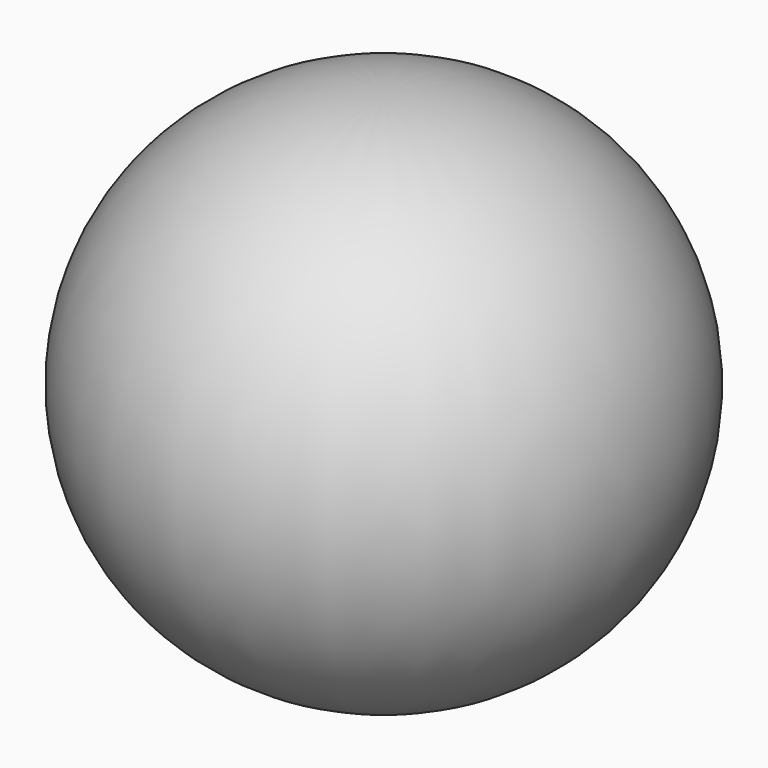
from build123d import *


with BuildPart() as f2:
    # F2: sweep along a path in F0
    with BuildLine(Plane.XY) as f2_path:
        CenterArc((0, 0), 50, 0, 360)
    # F1 (on Front) → F2 (sweep)
    with BuildSketch(Plane.XZ):
        with BuildLine():
            Line((0, -49.957218), (0, 0))
            Line((0, 0), (0, 49.957218))
            ThreePointArc((0, 49.957218), (-52.067945, 0), (0, -49.957218))
        make_face()
    sweep(path=f2_path.line)


solid = f2.part
